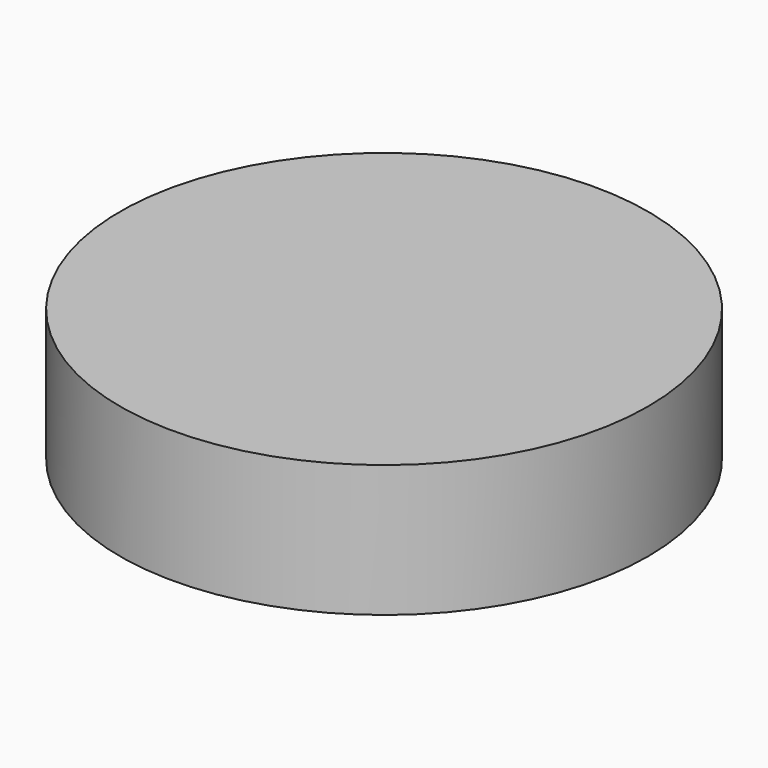
from build123d import *

# Parameters (mm, degrees)
SKETCH_R  = 0.06
PAD_DEPTH = 0.015


with BuildPart() as part:
    # Sketch → Pad (new body, symmetric)
    with BuildSketch(Plane.XY):
        Circle(SKETCH_R)
    extrude(amount=PAD_DEPTH, both=True)


solid = part.part
